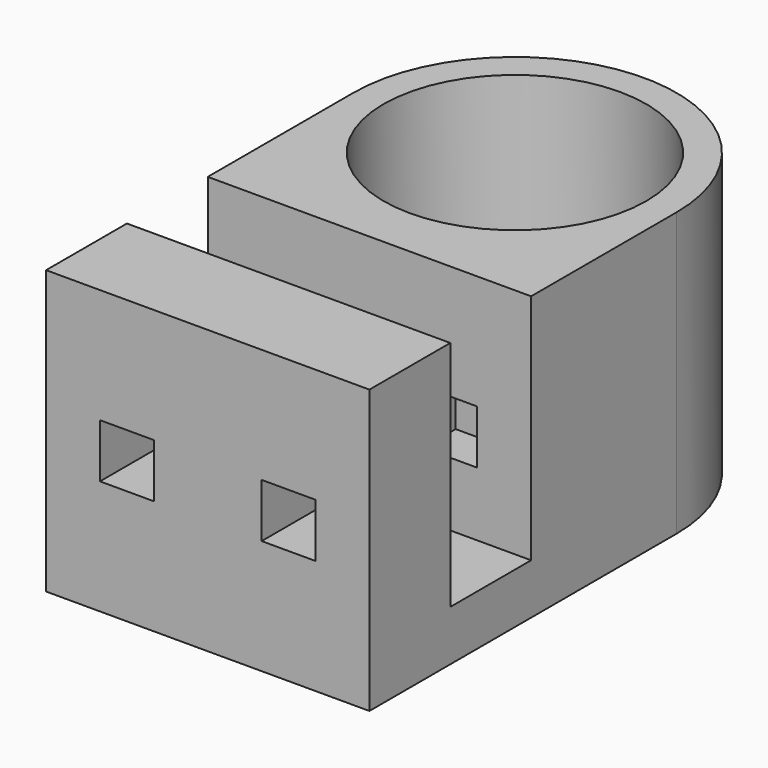
from build123d import *

# Parameters (mm, degrees)
F0_W     = 20.32
F0_H     = 12.7
F1_DEPTH = 3.175
F2_W     = 20.32
F2_H     = 3.175
F3_DEPTH = 14.605
F4_R     = 8.255
F5_DEPTH = 17.78
F6_W     = 20.32
F6_H     = 17.78
F7_DEPTH = 3.175
F8_W     = 3.386666
F8_H     = 3.386666
F9_DEPTH = 15.24


with BuildPart() as f1:
    # F0 (on Top) → F1 (new body)
    with BuildSketch(Plane.XY):
        Rectangle(F0_W, F0_H)
    extrude(amount=F1_DEPTH)

    # F2 (on face) → F3 (join)
    with BuildSketch(Plane.XY.offset(3.175)):
        with Locations((0, -4.7625)):
            Rectangle(F2_W, F2_H)
    extrude(amount=F3_DEPTH)

    # F4 (on Top) → F5 (join)
    with BuildSketch(Plane.XY):
        with BuildLine():
            Line((10.16, 3.175), (10.16, 14.605))
            ThreePointArc((10.16, 14.605), (0, 24.765), (-10.16, 14.605))
            Line((-10.16, 14.605), (-10.16, 3.175))
            Line((-10.16, 3.175), (10.16, 3.175))
        make_face()
        with Locations((0, 14.605)):
            Circle(F4_R, mode=Mode.SUBTRACT)
    extrude(amount=F5_DEPTH)

    # F6 (on face) → F7 (join)
    with BuildSketch(Plane.XZ.offset(6.35)):
        with Locations((0, 8.89)):
            Rectangle(F6_W, F6_H)
    extrude(amount=F7_DEPTH)

    # F8 (on face) → F9 (cut)
    with BuildSketch(Plane.XZ.offset(9.525)):
        with Locations((-5.08, 8.89)):
            Rectangle(F8_W, F8_H)
        with Locations((5.08, 8.89)):
            Rectangle(F8_W, F8_H)
    extrude(amount=-F9_DEPTH, mode=Mode.SUBTRACT)


solid = f1.part
